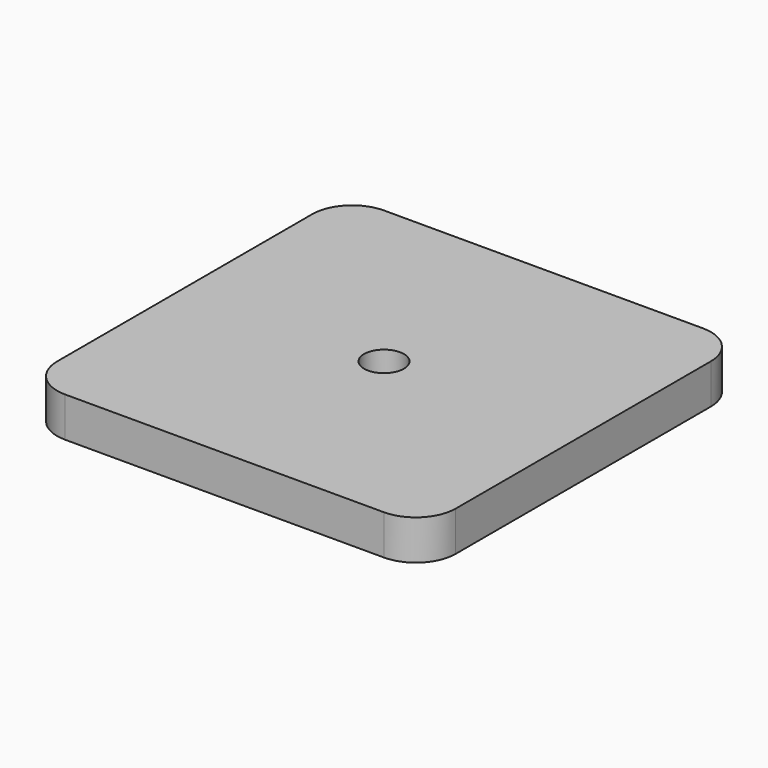
from build123d import *

# Parameters (mm, degrees)
F0_W     = 100
F0_H     = 100
F1_DEPTH = 10
F2_R     = 10
F3_D     = 10


with BuildPart() as f1:
    # F0 (on Top) → F1 (new body)
    with BuildSketch(Plane.XY):
        Rectangle(F0_W, F0_H)
    extrude(amount=F1_DEPTH)

    # F2
    f2_edges = [f1.edges().sort_by_distance(p)[0] for p in [
        (-50, -50, 5),
        (50, -50, 5),
        (50, 50, 5),
        (-50, 50, 5),
    ]]
    fillet(f2_edges, radius=F2_R)

    # F3 (through all)
    with Locations(Plane(origin=(0, 0, 0), x_dir=(1, 0, 0), z_dir=(0, 0, -1))):
        with Locations((0, 0)):
            Hole(F3_D / 2)


solid = f1.part
